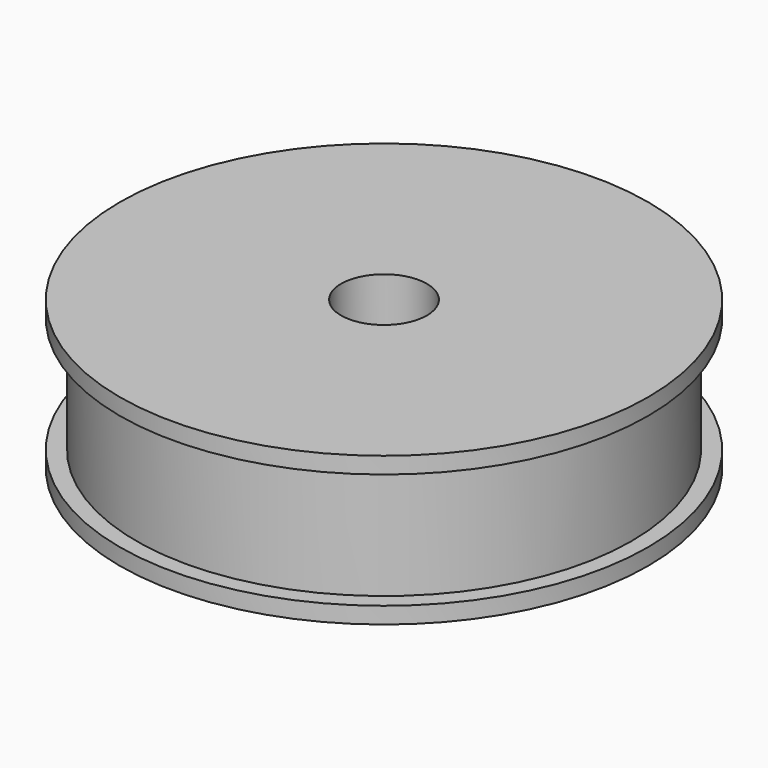
from build123d import *

# Parameters (mm, degrees)
SKETCH_R     = 15
PAD_DEPTH    = 7
SKETCH001_R  = 16
PAD001_DEPTH = 1
SKETCH002_R  = 16
PAD002_DEPTH = 1
SKETCH003_R  = 2.6
POCKET_DEPTH = 9.001


with BuildPart() as part:
    # Sketch → Pad (new body)
    with BuildSketch(Plane.XY):
        Circle(SKETCH_R)
    extrude(amount=PAD_DEPTH)

    # Sketch001 (on Face3 of Pad) → Pad001 (join)
    with BuildSketch(Plane.XY.offset(7)):
        Circle(SKETCH001_R)
    extrude(amount=PAD001_DEPTH)

    # Sketch002 (on Face2 of Pad001) → Pad002 (join)
    with BuildSketch(Plane(origin=(0, 0, 0), x_dir=(1, 0, 0), z_dir=(0, 0, -1))):
        Circle(SKETCH002_R)
    extrude(amount=PAD002_DEPTH)

    # Sketch003 (on Face6 of Pad002) → Pocket (cut, through all)
    with BuildSketch(Plane(origin=(0, 0, -1), x_dir=(1, 0, 0), z_dir=(0, 0, -1))):
        Circle(SKETCH003_R)
    extrude(amount=-POCKET_DEPTH, mode=Mode.SUBTRACT)


solid = part.part
